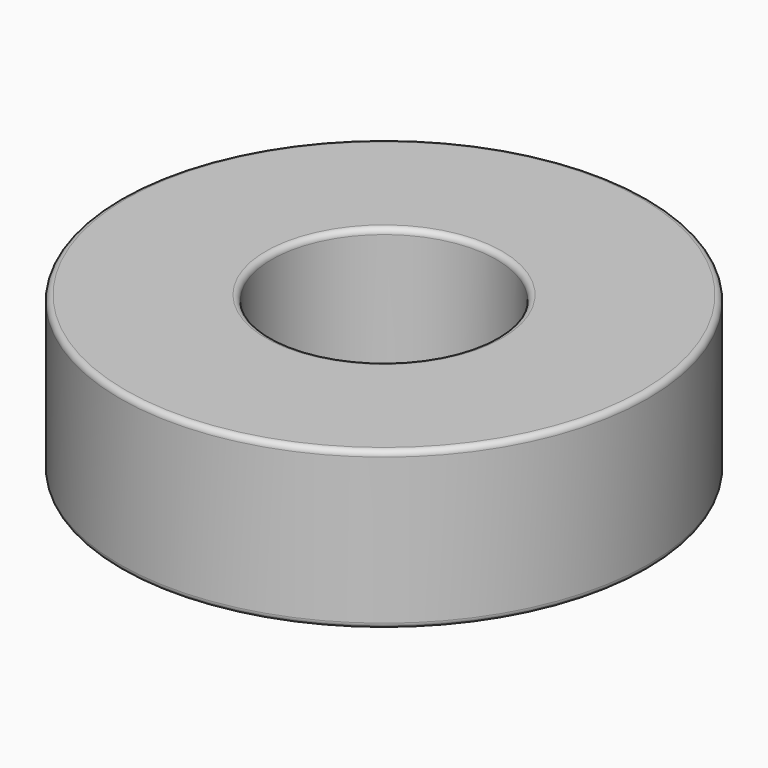
from build123d import *

# Parameters (mm, degrees)
F0_R     = 23.5
F0_R_2   = 10
F1_DEPTH = 7
F2_R     = 0.5


with BuildPart() as f1:
    # F0 (on Top) → F1 (new body, symmetric)
    with BuildSketch(Plane.XY):
        Circle(F0_R)
        Circle(F0_R_2, mode=Mode.SUBTRACT)
    extrude(amount=F1_DEPTH, both=True)

    # F2
    f2_edges = [f1.edges().sort_by_distance(p)[0] for p in [
        (-23.5, 0, -7),
        (23.5, 0, 0),
        (-23.5, 0, 7),
        (-10, 0, 7),
        (10, 0, 0),
        (-10, 0, -7),
    ]]
    fillet(f2_edges, radius=F2_R)


solid = f1.part
